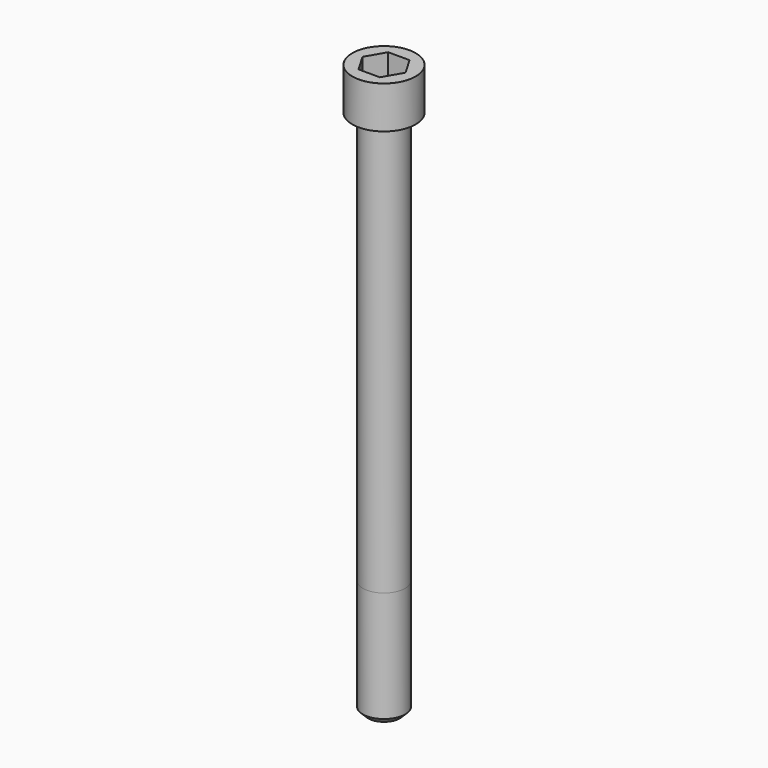
from build123d import *

# Parameters (mm, degrees)
POCKET_DEPTH = 14.08


with BuildPart() as part:
    # Sketch → Revolve (revolve)
    with BuildSketch(Plane.YZ):
        with BuildLine():
            Line((7.999, 0), (12, 0))
            Line((12, 0), (12, 15.97229))
            ThreePointArc((12, 15.97229), (11.991884, 15.991884), (11.97229, 16))
            Line((11.97229, 16), (0, 16))
            Line((0, -200), (0, 16))
            Line((6, -200), (0, -200))
            Line((8, -198), (6, -200))
            Line((8, -156), (8, -198))
            Line((7.999, 0), (8, -156))
        make_face()
    revolve(axis=Axis((0, 0, 0), (0, 0, 1)))

    # Sketch001 → Pocket (cut)
    with BuildSketch(Plane.XY.offset(16)):
        Polygon((8.129092, 0), (4.064546, 7.04), (-4.064546, 7.04), (-8.129092, 0), (-4.064546, -7.04), (4.064546, -7.04), align=None)
    extrude(amount=-POCKET_DEPTH, mode=Mode.SUBTRACT)


solid = part.part
